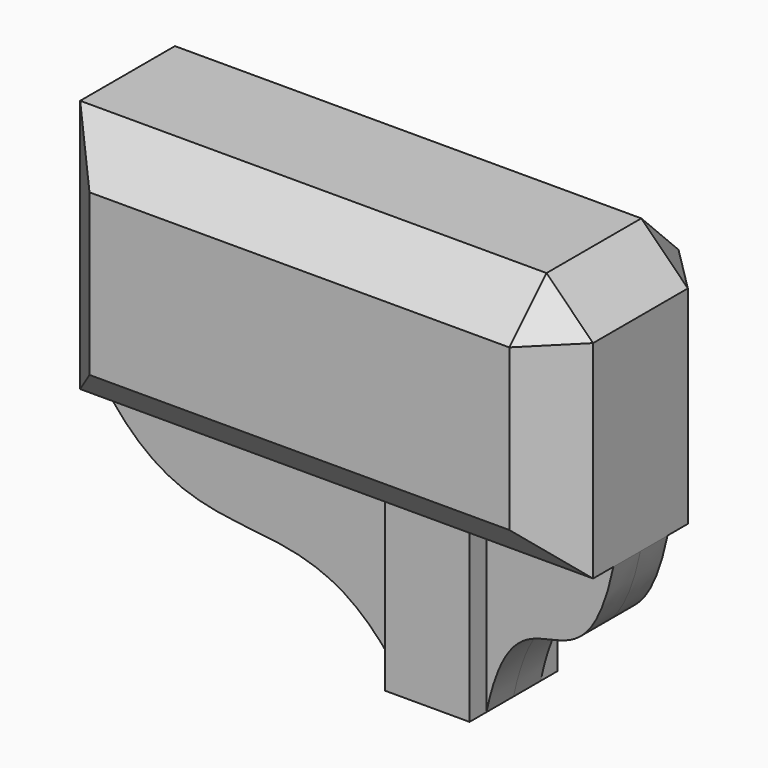
from build123d import *

# Parameters (mm, degrees)
F1_DEPTH = 4
F0_W     = 5
F0_H     = 20
F2_DEPTH = 6.5
F3_DEPTH = 12.5
F4_SIZE  = 5.5


with BuildPart() as f1:
    # F0 (on Front) → F1 (new body, symmetric)
    with BuildSketch(Plane.XZ):
        with BuildLine():
            add(Edge.make_bspline(
                [(-56.556158, 7.931484), (-60.236714, -9.499072), (-67.875602, 5.362041), (-71.556158, -12.068516)],
                knots=[0, 0, 0, 0, 25, 25, 25, 25], degree=3))
            Line((-56.556158, 7.931484), (-71.556158, 7.931484))
            Line((-71.556158, 7.931484), (-71.556158, -12.068516))
        make_face()
        with BuildLine():
            Line((-81.556158, -12.068516), (-81.556158, 7.931484))
            Line((-81.556158, 7.931484), (-117.181165, 7.931484))
            add(Edge.make_bspline(
                [(-117.181165, 7.931484), (-105.306162, -9.499072), (-93.43116, 5.362041), (-81.556158, -12.068516)],
                knots=[0, 0, 0, 0, 40.855123, 40.855123, 40.855123, 40.855123], degree=3))
        make_face()
    extrude(amount=F1_DEPTH, both=True)


with BuildPart() as f2:
    # F0 (on Front) → F2 (new body, symmetric)
    with BuildSketch(Plane.XZ):
        with Locations((-79.056158, -2.068516)):
            Rectangle(F0_W, F0_H)
        with Locations((-74.056158, -2.068516)):
            Rectangle(F0_W, F0_H)
    extrude(amount=F2_DEPTH, both=True)


with BuildPart() as f3:
    # F0 (on Front) → F3 (new body, symmetric)
    with BuildSketch(Plane.XZ):
        Polygon((-81.556158, 7.931484), (-76.556158, 7.931484), (-76.556158, 37.931484), (-117.181165, 37.931484), (-117.181165, 7.931484), align=None)
        Polygon((-71.556158, 7.931484), (-56.556158, 7.931484), (-56.556158, 37.931484), (-76.556158, 37.931484), (-76.556158, 7.931484), align=None)
    extrude(amount=F3_DEPTH, both=True)

    # F4
    f4_edges = [f3.edges().sort_by_distance(p)[0] for p in [
        (-56.556158, 0, 37.931484),
        (-56.556158, -12.5, 22.931484),
        (-86.868661, -12.5, 37.931484),
        (-86.868661, 12.5, 37.931484),
        (-56.556158, 12.5, 22.931484),
        (-117.181165, 12.5, 22.931484),
        (-117.181165, -12.5, 22.931484),
        (-86.868661, -12.5, 7.931484),
        (-86.868661, 12.5, 7.931484),
    ]]
    chamfer(f4_edges, length=F4_SIZE)


solid = Compound([f1.part, f2.part, f3.part])
